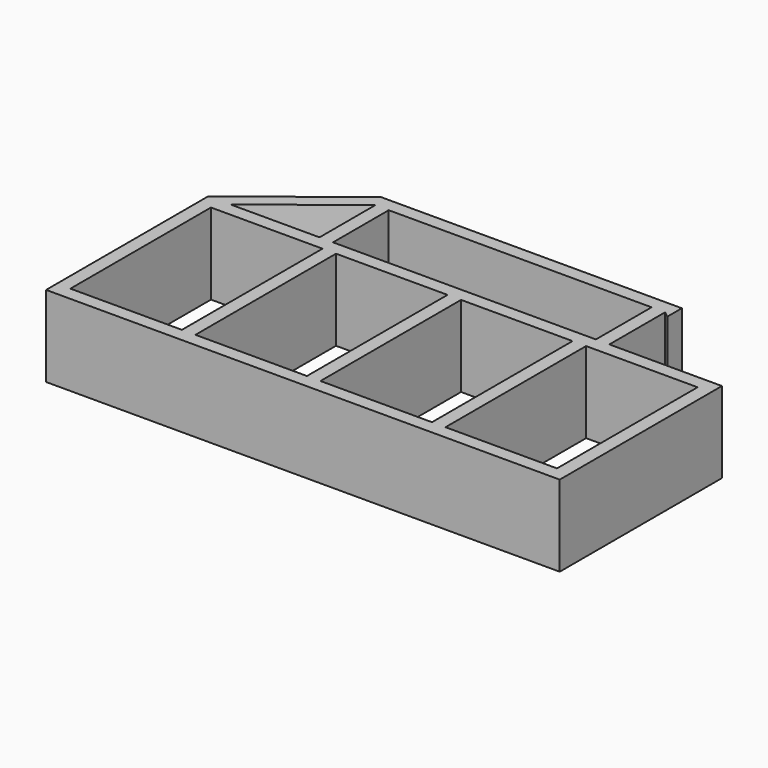
from build123d import *

# Parameters (mm, degrees)
F0_W     = 50.8
F0_H     = 261.669054
F0_H_2   = 660.4
F1_DEPTH = 304.8


with BuildPart() as f1:
    # F0 (on Top) → F1 (new body)
    with BuildSketch(Plane.XY):
        Polygon((564.666493, 625.426641), (564.666493, 693.469054), (-564.666493, 693.469054), (-965.2, 381), (-882.611341, 381), (-547.19501, 642.669054), (-496.39501, 642.669054), (491.437937, 642.669054), (542.237937, 642.669054), align=None)
        with Locations((-521.79501, 511.834527)):
            Rectangle(F0_W, F0_H)
        with Locations((516.837937, 511.834527)):
            Rectangle(F0_W, F0_H)
        Polygon((965.2, -381), (965.2, 381), (882.611341, 381), (542.237937, 381), (491.437937, 381), (-496.39501, 381), (-547.19501, 381), (-882.611341, 381), (-965.2, 381), (-965.2, -381), align=None)
        Polygon((495.3, 330.2), (914.4, 330.2), (914.4, -330.2), (495.3, -330.2), (444.5, -330.2), (25.4, -330.2), (-25.4, -330.2), (-444.5, -330.2), (-495.3, -330.2), (-914.4, -330.2), (-914.4, 330.2), (-495.3, 330.2), (-444.5, 330.2), (-25.4, 330.2), (25.4, 330.2), (444.5, 330.2), align=None, mode=Mode.SUBTRACT)
        with Locations((469.9, 0)):
            Rectangle(F0_W, F0_H_2)
        Rectangle(F0_W, F0_H_2)
        with Locations((-469.9, 0)):
            Rectangle(F0_W, F0_H_2)
    extrude(amount=F1_DEPTH)


solid = f1.part
